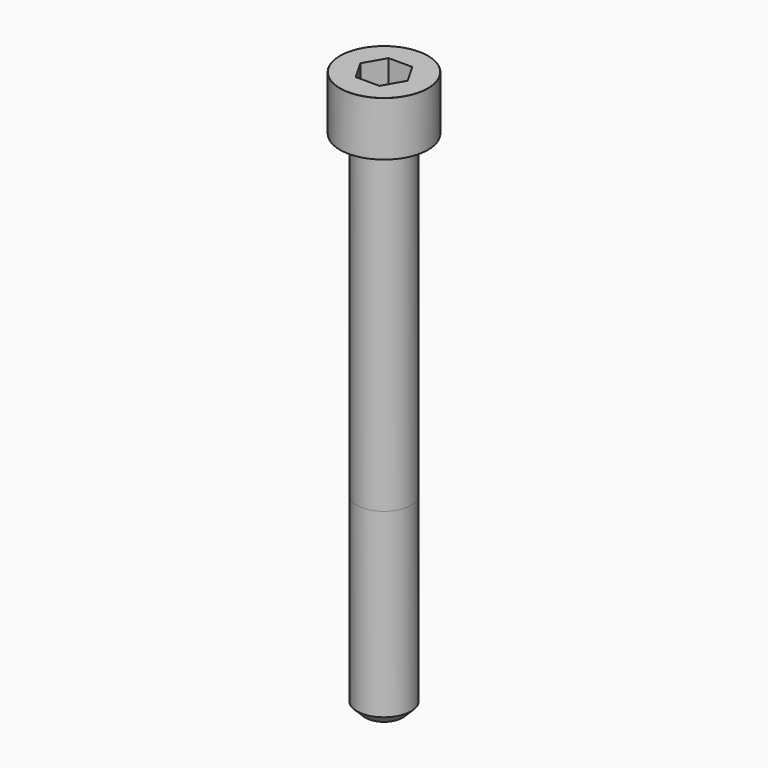
from build123d import *

# Parameters (mm, degrees)
POCKET_DEPTH = 6.06


with BuildPart() as part:
    # Sketch → Revolve (revolve)
    with BuildSketch(Plane.YZ):
        with BuildLine():
            Line((3.999, 0), (6.5, 0))
            Line((6.5, 0), (6.5, 7.97229))
            ThreePointArc((6.5, 7.97229), (6.491884, 7.991884), (6.47229, 8))
            Line((6.47229, 8), (0, 8))
            Line((0, -75), (0, 8))
            Line((2.75, -75), (0, -75))
            Line((4, -73.75), (2.75, -75))
            Line((4, -47), (4, -73.75))
            Line((3.999, 0), (4, -47))
        make_face()
    revolve(axis=Axis((0, 0, 0), (0, 0, 1)))

    # Sketch001 → Pocket (cut)
    with BuildSketch(Plane.XY.offset(8)):
        Polygon((3.498743, 0), (1.749371, 3.03), (-1.749371, 3.03), (-3.498743, 0), (-1.749371, -3.03), (1.749371, -3.03), align=None)
    extrude(amount=-POCKET_DEPTH, mode=Mode.SUBTRACT)


solid = part.part
